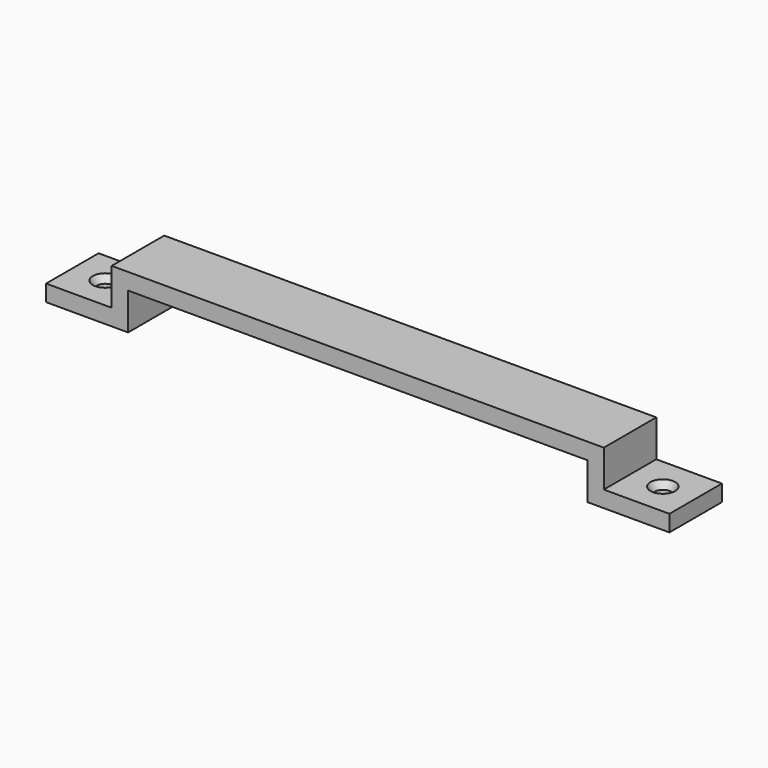
from build123d import *

# Parameters (mm, degrees)
F3_DEPTH       = 12.7
F5_D           = 6.35
F5_CSINK_D     = 9.525
F5_CSINK_ANGLE = 60


with BuildPart() as f3:
    # F2 (on Front) → F3 (new body, symmetric)
    with BuildSketch(Plane.XZ):
        Polygon((-31.75, -7.9375), (-31.75, -14.2875), (0, -14.2875), (0, 0), (177.8, 0), (177.8, -14.2875), (209.55, -14.2875), (209.55, -7.9375), (184.15, -7.9375), (184.15, 6.35), (-6.35, 6.35), (-6.35, -7.9375), align=None)
    extrude(amount=F3_DEPTH, both=True)

    # F5 (through all)
    with Locations(Plane.XY.offset(-7.9375)):
        with Locations((-19.05, 0), (196.85, 0)):
            CounterSinkHole(F5_D / 2, F5_CSINK_D / 2, counter_sink_angle=F5_CSINK_ANGLE)


solid = f3.part
